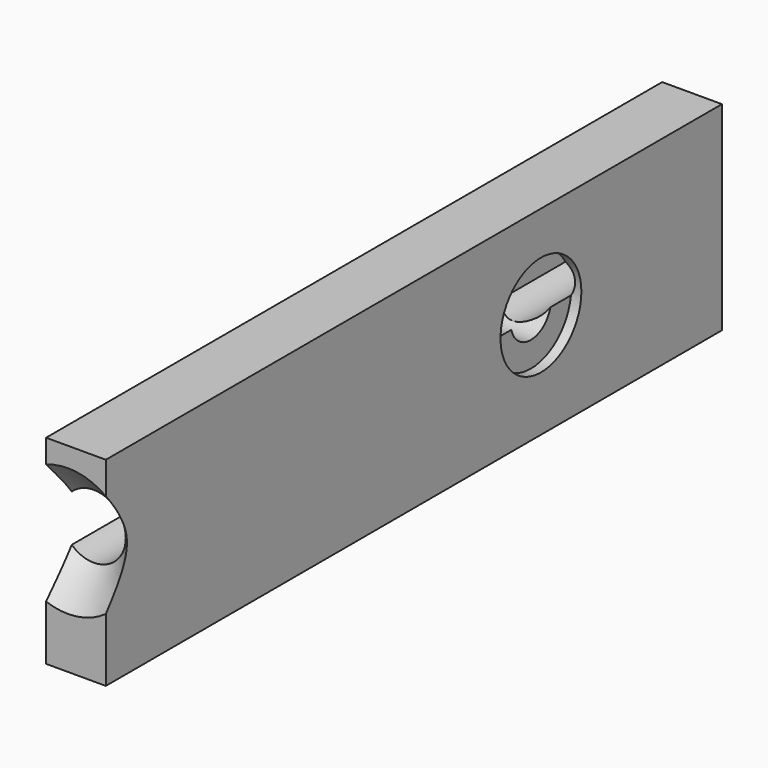
from build123d import *

# Parameters (mm, degrees)
F0_W           = 5.910679
F0_H           = 19.702202
F1_DEPTH       = 76.2
F3_D           = 6.35
F3_CSINK_D     = 12.7
F3_CSINK_ANGLE = 90
F5_D           = 5
F5_CBORE_D     = 10
F5_CBORE_DEPTH = 1


with BuildPart() as f1:
    # F0 (on Front) → F1 (new body)
    with BuildSketch(Plane.XZ):
        with Locations((85.252292, 27.52936)):
            Rectangle(F0_W, F0_H)
    extrude(amount=F1_DEPTH)

    # F3 (through all)
    with Locations(Plane.XZ.offset(76.2)):
        with Locations((84.467381, 29.080626)):
            CounterSinkHole(F3_D / 2, F3_CSINK_D / 2, counter_sink_angle=F3_CSINK_ANGLE)

    # F5 (through all)
    with Locations(Plane.YZ.offset(88.207632)):
        with Locations((-22.383902, 28.110377)):
            CounterBoreHole(F5_D / 2, F5_CBORE_D / 2, F5_CBORE_DEPTH)


solid = f1.part
